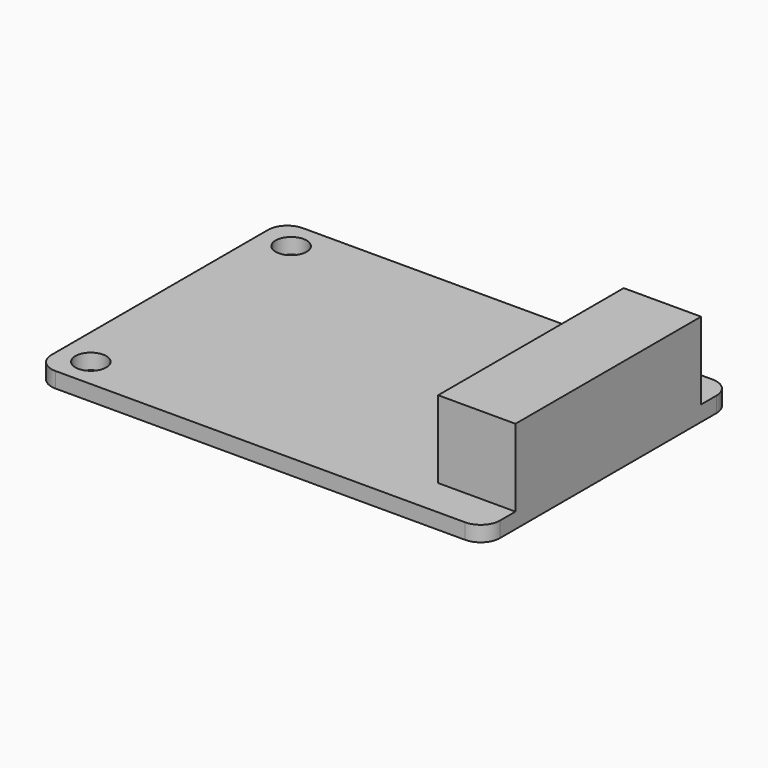
from build123d import *

# Parameters (mm, degrees)
SKETCH_W     = 29
SKETCH_H     = 20
SKETCH_R     = 1
PAD_DEPTH    = 1
FILLET_R     = 1.25
SKETCH001_W  = 5
SKETCH001_H  = 15
PAD001_DEPTH = 5


with BuildPart() as part:
    # Sketch → Pad (new body)
    with BuildSketch(Plane.XY):
        Rectangle(SKETCH_W, SKETCH_H)
        with Locations((-12.48, -8.095)):
            Circle(SKETCH_R, mode=Mode.SUBTRACT)
        with Locations((-12.48, 8.095)):
            Circle(SKETCH_R, mode=Mode.SUBTRACT)
    extrude(amount=PAD_DEPTH)

    # Fillet
    fillet_edges = [part.edges().sort_by_distance(p)[0] for p in [
        (14.5, -10, 0.5),
        (14.5, 10, 0.5),
        (-14.5, -10, 0.5),
        (-14.5, 10, 0.5),
    ]]
    fillet(fillet_edges, radius=FILLET_R)

    # Sketch001 (on Face5 of Fillet) → Pad001 (join)
    with BuildSketch(Plane.XY.offset(1)):
        with Locations((12, 0)):
            Rectangle(SKETCH001_W, SKETCH001_H)
    extrude(amount=PAD001_DEPTH)


solid = part.part
